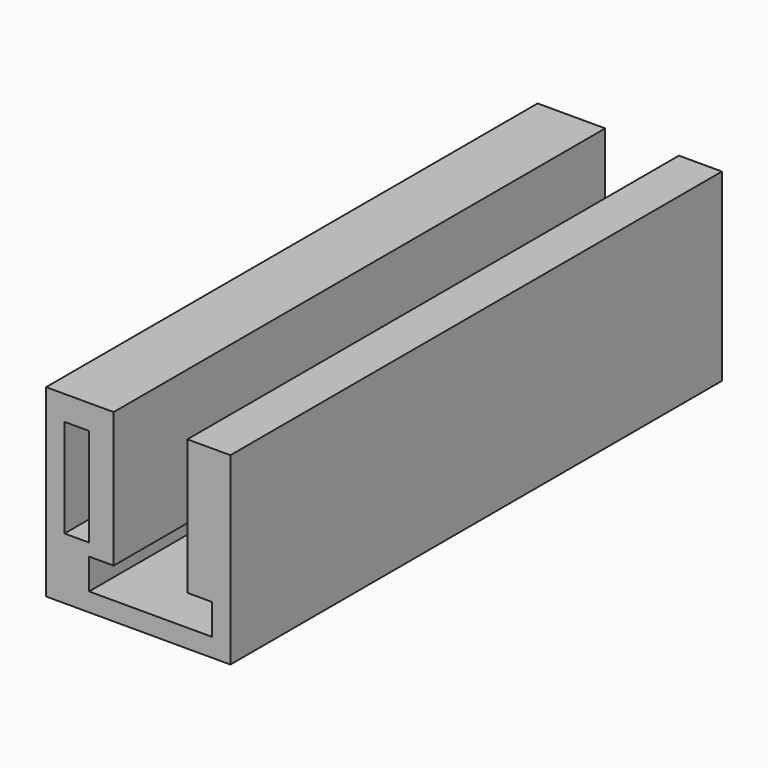
from build123d import *

# Parameters (mm, degrees)
F1_DEPTH = 50


with BuildPart() as f1:
    # F0 (on Front) → F1 (new body)
    with BuildSketch(Plane.XZ):
        Polygon((-20.985674113, 9.5), (-26.485674113, 9.5), (-26.485674113, -5.5), (-11.485674113, -5.5), (-11.485674113, 9.5), (-14.985674113, 9.5), (-14.985674113, -1.5), (-12.985674113, -1.5), (-12.985674113, -4), (-22.985674113, -4), (-22.985674113, -1.5), (-20.985674113, -1.5), align=None)
        Polygon((-24.985674113, -0.5), (-24.985674113, 7.5), (-22.985674113, 7.5), (-22.985674113, 5), (-22.985674113, 0), (-22.985674113, -0.5), align=None, mode=Mode.SUBTRACT)
    extrude(amount=F1_DEPTH)


solid = f1.part
